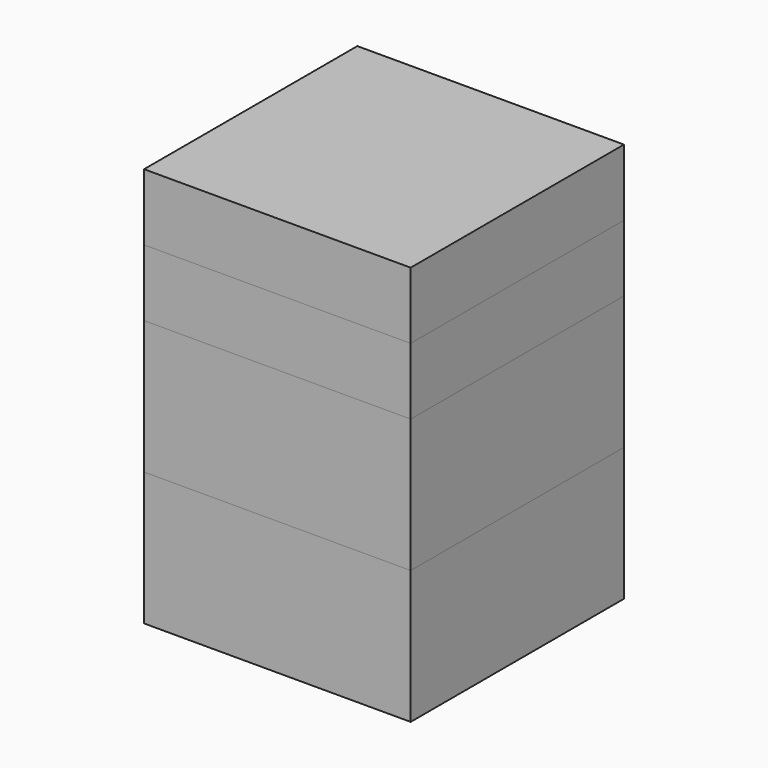
from build123d import *

# Parameters (mm, degrees)
F0_W     = 20
F0_H     = 20
F1_DEPTH = 10
F2_DEPTH = 10
F3_DEPTH = 5
F4_DEPTH = 5


with BuildPart() as f1:
    # F0 (on Top) → F1 (new body)
    with BuildSketch(Plane.XY):
        Rectangle(F0_W, F0_H)
    extrude(amount=F1_DEPTH)


with BuildPart() as f2:
    # F2 (new): a face of the model
    f2_faces = [f1.part.faces().sort_by_distance(p)[0] for p in [
        (0, 0, 10),
    ]]
    extrude(f2_faces, amount=F2_DEPTH)


with BuildPart() as f3:
    # F3 (new): a face of the model
    f3_faces = [f2.part.faces().sort_by_distance(p)[0] for p in [
        (0, 0, 20),
    ]]
    extrude(f3_faces, amount=F3_DEPTH)


with BuildPart() as f4:
    # F4 (new): a face of the model
    f4_faces = [f3.part.faces().sort_by_distance(p)[0] for p in [
        (0, 0, 25),
    ]]
    extrude(f4_faces, amount=F4_DEPTH)


solid = Compound([f1.part, f2.part, f3.part, f4.part])
